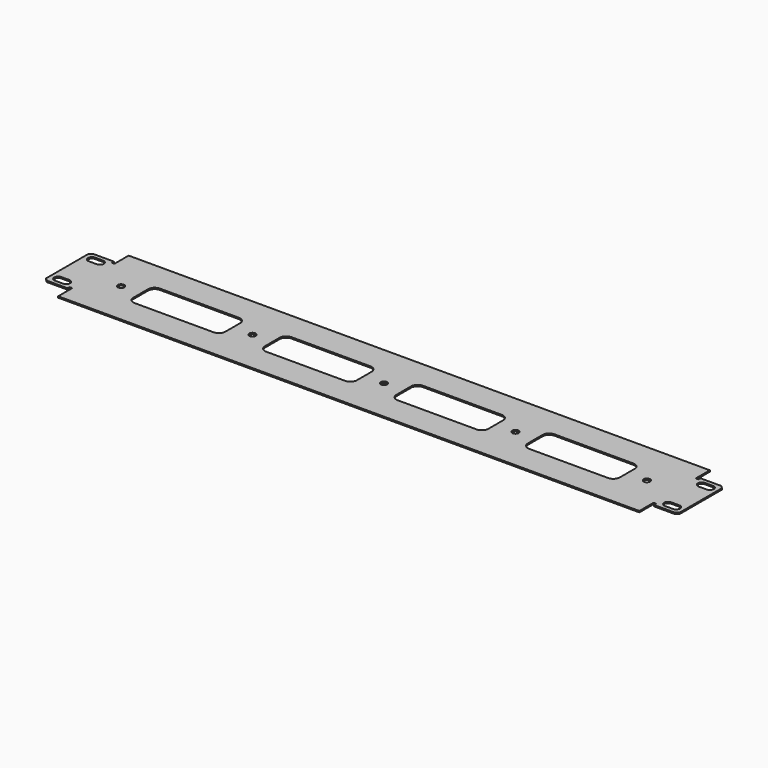
from build123d import *

# Parameters (mm, degrees)
F1_DEPTH = 1
F3_D     = 5
F5_DEPTH = 25
F7_DEPTH = 25


with BuildPart() as f1:
    # F0 (on Top) → F1 (new body)
    with BuildSketch(Plane.XY):
        Polygon((221, 20), (221, 33.5), (0, 33.5), (-221, 33.5), (-221, 20), (-223, 20), (-223, 22), (-239, 22), (-241, 20), (-241, 0), (-241, -20), (-239, -22), (-223, -22), (-223, -20), (-221, -20), (-221, -33.5), (0, -33.5), (221, -33.5), (221, -20), (223, -20), (223, -22), (239, -22), (241, -20), (241, 0), (241, 20), (239, 22), (223, 22), (223, 20), align=None)
    extrude(amount=F1_DEPTH)

    # F3 (through all)
    with Locations(Plane.XY.offset(1)):
        with Locations((-200, 0), (-100, 0), (0, 0), (100, 0), (200, 0)):
            Hole(F3_D / 2)

    # F4 (on face) → F5 (cut)
    with BuildSketch(Plane.XY.offset(1)):
        with BuildLine():
            Line((-228.9, -13), (-235, -13))
            ThreePointArc((-235, -13), (-238, -16), (-235, -19))
            Line((-235, -19), (-228.9, -19))
            ThreePointArc((-228.9, -19), (-225.9, -16), (-228.9, -13))
        make_face()
        with BuildLine():
            ThreePointArc((-235, 19), (-238, 16), (-235, 13))
            Line((-235, 13), (-228.9, 13))
            ThreePointArc((-228.9, 13), (-225.9, 16), (-228.9, 19))
            Line((-228.9, 19), (-235, 19))
        make_face()
        with BuildLine():
            Line((228.9, 13), (235, 13))
            ThreePointArc((235, 13), (238, 16), (235, 19))
            Line((235, 19), (228.9, 19))
            ThreePointArc((228.9, 19), (225.9, 16), (228.9, 13))
        make_face()
        with BuildLine():
            ThreePointArc((228.9, -13), (225.9, -16), (228.9, -19))
            Line((228.9, -19), (235, -19))
            ThreePointArc((235, -19), (238, -16), (235, -13))
            Line((235, -13), (228.9, -13))
        make_face()
    extrude(amount=-F5_DEPTH, mode=Mode.SUBTRACT)

    # F6 (on face) → F7 (cut)
    with BuildSketch(Plane(origin=(0, 0, 0), x_dir=(1, 0, 0), z_dir=(0, 0, -1))):
        with BuildLine():
            ThreePointArc((120, 12), (116.464466, 10.535534), (115, 7))
            Line((115, 7), (115, -7))
            ThreePointArc((115, -7), (116.464466, -10.535534), (120, -12))
            Line((120, -12), (180, -12))
            ThreePointArc((180, -12), (183.535534, -10.535534), (185, -7))
            Line((185, -7), (185, 7))
            ThreePointArc((185, 7), (183.535534, 10.535534), (180, 12))
            Line((180, 12), (120, 12))
        make_face()
        with BuildLine():
            ThreePointArc((20, 12), (16.464466, 10.535534), (15, 7))
            Line((15, 7), (15, -7))
            ThreePointArc((15, -7), (16.464466, -10.535534), (20, -12))
            Line((20, -12), (80, -12))
            ThreePointArc((80, -12), (83.535534, -10.535534), (85, -7))
            Line((85, -7), (85, 7))
            ThreePointArc((85, 7), (83.535534, 10.535534), (80, 12))
            Line((80, 12), (20, 12))
        make_face()
        with BuildLine():
            ThreePointArc((-15, 7), (-16.464466, 10.535534), (-20, 12))
            Line((-20, 12), (-80, 12))
            ThreePointArc((-80, 12), (-83.535534, 10.535534), (-85, 7))
            Line((-85, 7), (-85, -7))
            ThreePointArc((-85, -7), (-83.535534, -10.535534), (-80, -12))
            Line((-80, -12), (-20, -12))
            ThreePointArc((-20, -12), (-16.464466, -10.535534), (-15, -7))
            Line((-15, -7), (-15, 7))
        make_face()
        with BuildLine():
            ThreePointArc((-115, 7), (-116.464466, 10.535534), (-120, 12))
            Line((-120, 12), (-180, 12))
            ThreePointArc((-180, 12), (-183.535534, 10.535534), (-185, 7))
            Line((-185, 7), (-185, -7))
            ThreePointArc((-185, -7), (-183.535534, -10.535534), (-180, -12))
            Line((-180, -12), (-120, -12))
            ThreePointArc((-120, -12), (-116.464466, -10.535534), (-115, -7))
            Line((-115, -7), (-115, 7))
        make_face()
    extrude(amount=-F7_DEPTH, mode=Mode.SUBTRACT)


solid = f1.part
